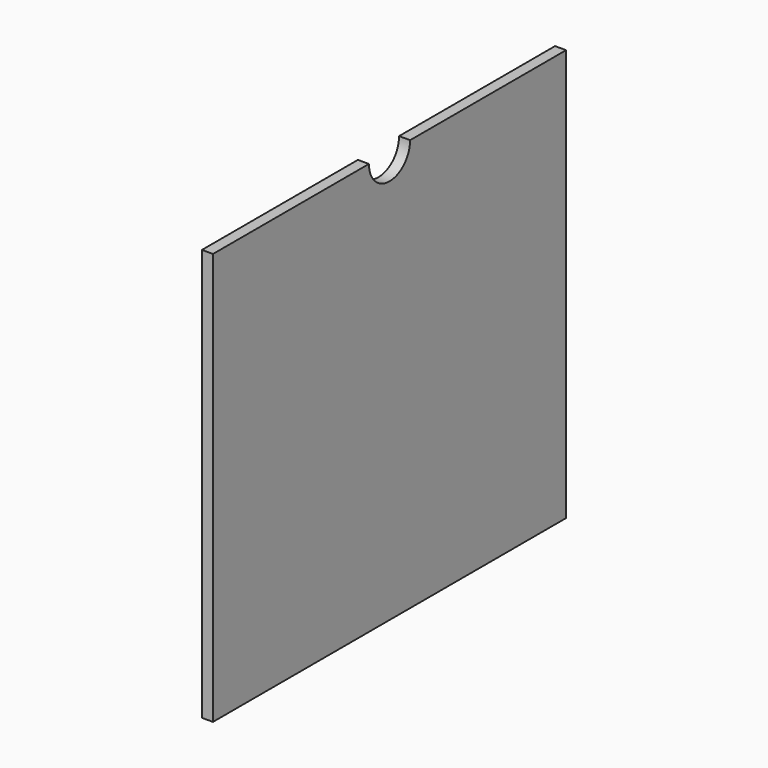
from build123d import *

# Parameters (mm, degrees)
F0_W     = 762
F0_H     = 711.2
F1_DEPTH = 19.05
F3_DEPTH = 25.4


with BuildPart() as f1:
    # F0 (on Right) → F1 (new body)
    with BuildSketch(Plane.YZ):
        Rectangle(F0_W, F0_H)
    extrude(amount=F1_DEPTH)

    # F2 (on face) → F3 (cut)
    with BuildSketch(Plane.YZ.offset(19.05)):
        with BuildLine():
            ThreePointArc((-44.45, 355.6), (0, 311.15), (44.45, 355.6))
            Line((44.45, 355.6), (-44.45, 355.6))
        make_face()
    extrude(amount=-F3_DEPTH, mode=Mode.SUBTRACT)


solid = f1.part
